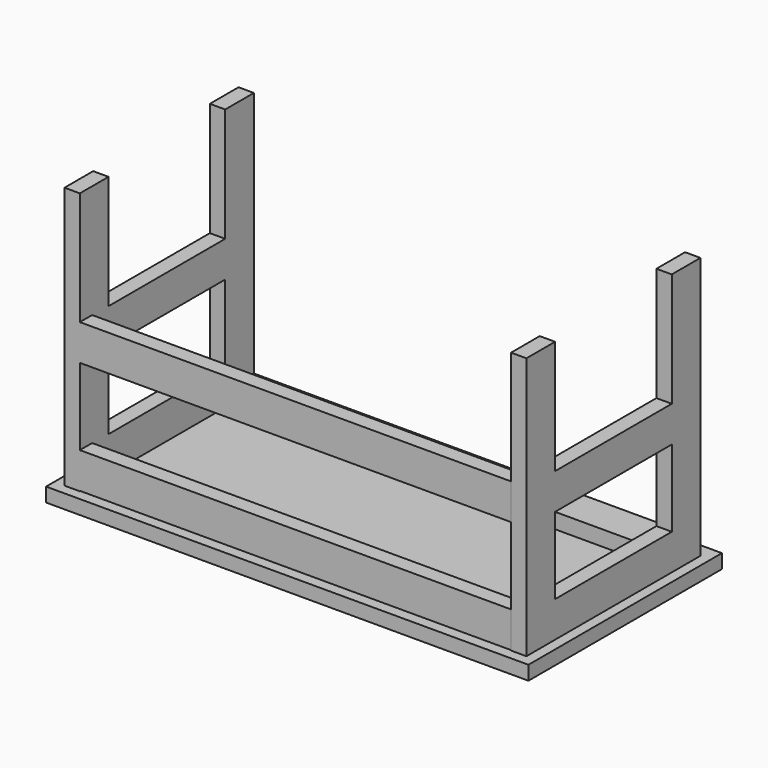
from build123d import *

# Parameters (mm, degrees)
BOX_W        = 1196.98
BOX_H        = 600.075
BOX_DEPTH    = 34.925
BOX001_W     = 38.1
BOX001_H     = 88.9
BOX001_DEPTH = 650.875
BOX002_W     = 1069.97
BOX002_H     = 38.1
BOX002_DEPTH = 88.9
BOX003_W     = 38.1
BOX003_H     = 361.95
BOX003_DEPTH = 88.9
BOX004_W     = 1069.97
BOX004_H     = 38.1
BOX004_DEPTH = 88.9
BOX005_W     = 38.1
BOX005_H     = 361.95
BOX005_DEPTH = 88.9
BOX006_W     = 1069.97
BOX006_H     = 88.9
BOX006_DEPTH = 38.1


with BuildPart() as tabletop:
    # Box → Box (new body)
    with BuildSketch(Plane.XY):
        with Locations((598.49, 300.0375)):
            Rectangle(BOX_W, BOX_H)
    extrude(amount=BOX_DEPTH)


with BuildPart() as obj1:
    # Box001 → Box001 (new body)
    with BuildSketch(Plane(origin=(25.4, 25.4, 34.925), x_dir=(1, 0, 0), z_dir=(0, 0, 1))):
        with Locations((19.05, 44.45)):
            Rectangle(BOX001_W, BOX001_H)
    extrude(amount=BOX001_DEPTH)


with BuildPart() as part_mirroring001:
    # Part__Mirroring001: instance of obj1
    add(obj1.part.mirror(Plane(origin=(598.487, 0, 0), x_dir=(0, -1, 0), z_dir=(1, 0, 0))))


with BuildPart() as back_support:
    # Box002 → Box002 (new body)
    with BuildSketch(Plane(origin=(63.5, 25.4, 214), x_dir=(1, 0, 0), z_dir=(0, 0, 1))):
        with Locations((534.985, 19.05)):
            Rectangle(BOX002_W, BOX002_H)
    extrude(amount=BOX002_DEPTH)


with BuildPart() as side_support:
    # Box003 → Box003 (new body)
    with BuildSketch(Plane(origin=(25.4, 114.3, 212.725), x_dir=(1, 0, 0), z_dir=(0, 0, 1))):
        with Locations((19.05, 180.975)):
            Rectangle(BOX003_W, BOX003_H)
    extrude(amount=BOX003_DEPTH)


with BuildPart() as braces_lower:
    # Part__Mirroring003: instance of side_support
    add(side_support.part.mirror(Plane(origin=(598.487, 0, 0), x_dir=(0, -1, 0), z_dir=(1, 0, 0))))

    # Compound: union back_support, side_support
    add(back_support.part)
    add(side_support.part)


with BuildPart() as braces_lower_1:
    # Compound placement: moved
    add(braces_lower.part.moved(Location((0, 0, 101.6))))


with BuildPart() as back_support001:
    # Box004 → Box004 (new body)
    with BuildSketch(Plane(origin=(63.5, 25.4, 214), x_dir=(1, 0, 0), z_dir=(0, 0, 1))):
        with Locations((534.985, 19.05)):
            Rectangle(BOX004_W, BOX004_H)
    extrude(amount=BOX004_DEPTH)


with BuildPart() as side_support001:
    # Box005 → Box005 (new body)
    with BuildSketch(Plane(origin=(25.4, 114.3, 212.725), x_dir=(1, 0, 0), z_dir=(0, 0, 1))):
        with Locations((19.05, 180.975)):
            Rectangle(BOX005_W, BOX005_H)
    extrude(amount=BOX005_DEPTH)


with BuildPart() as braces_upper:
    # Part__Mirroring004: instance of side_support001
    add(side_support001.part.mirror(Plane(origin=(598.487, 0, 0), x_dir=(0, -1, 0), z_dir=(1, 0, 0))))

    # Compound001: union back_support001, side_support001
    add(back_support001.part)
    add(side_support001.part)


with BuildPart() as braces_upper_1:
    # Compound001 placement: moved
    add(braces_upper.part.moved(Location((0, 0, -178))))


with BuildPart() as brace_front:
    # Box006 → Box006 (new body)
    with BuildSketch(Plane(origin=(63.5, 476.25, 34.925), x_dir=(1, 0, 0), z_dir=(0, 0, 1))):
        with Locations((534.985, 44.45)):
            Rectangle(BOX006_W, BOX006_H)
    extrude(amount=BOX006_DEPTH)


with BuildPart() as part_mirroring:
    # Part__Mirroring: instance of obj1
    add(obj1.part.mirror(Plane(origin=(0, 295.275, 0), x_dir=(1, 0, 0), z_dir=(0, 1, 0))))


with BuildPart() as frame:
    # Part__Mirroring002: instance of Part__Mirroring
    add(part_mirroring.part.mirror(Plane(origin=(598.487, 0, 0), x_dir=(0, -1, 0), z_dir=(1, 0, 0))))

    # Connect: union Part__Mirroring001, Braces_lower, Braces_upper, Brace_front, obj1, Part__Mirroring
    add(part_mirroring001.part)
    add(braces_lower_1.part)
    add(braces_upper_1.part)
    add(brace_front.part)
    add(obj1.part)
    add(part_mirroring.part)


solid = Compound([tabletop.part, frame.part])
